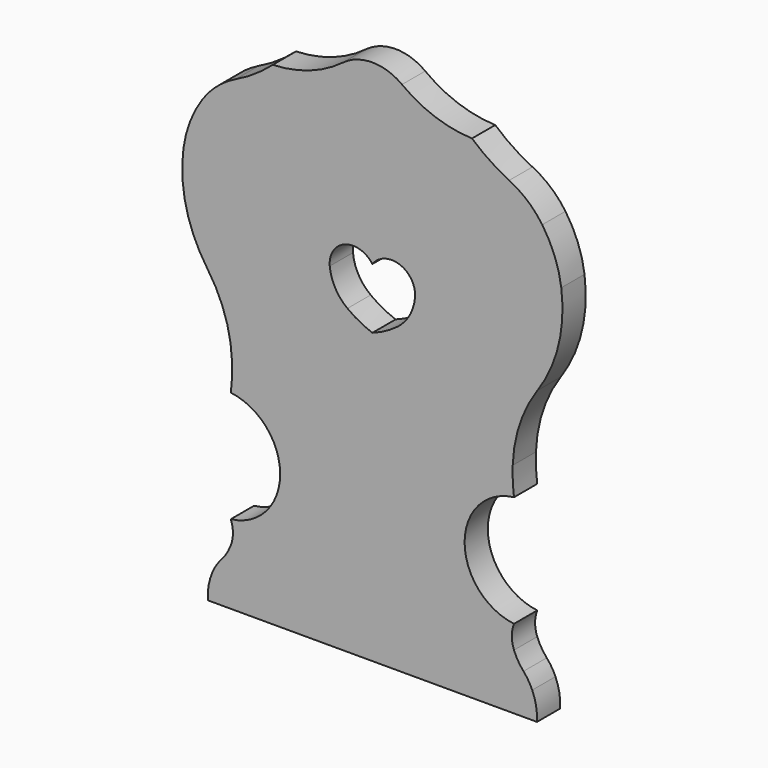
from build123d import *

# Parameters (mm, degrees)
F1_DEPTH = 25


with BuildPart() as f1:
    # F0 (on Front) → F1 (new body)
    with BuildSketch(Plane.XZ):
        with BuildLine():
            ThreePointArc((141.238138, 444.997787), (112.749463, 429.773668), (81.014585, 423.750718))
            ThreePointArc((81.014585, 423.750718), (65.741999, 411.97311), (49.000544, 402.397745))
            ThreePointArc((49.000544, 402.397745), (33.218565, 392.066346), (20.588335, 378.056139))
            ThreePointArc((20.588335, 378.056139), (9.877069, 357.822031), (4.194495, 335.644143))
            ThreePointArc((4.194495, 335.644143), (6.529558, 291.46217), (24.733176, 251.136899))
            ThreePointArc((24.733176, 251.136899), (39.945084, 220.899663), (45.972874, 187.592631))
            ThreePointArc((45.972874, 187.592631), (45.912459, 175.6279), (44.882946, 163.70739))
            ThreePointArc((44.882946, 163.70739), (87.378349, 115.792993), (44.882946, 67.878596))
            ThreePointArc((44.882946, 67.878596), (46.748425, 57.916658), (44.882946, 47.95472))
            ThreePointArc((44.882946, 47.95472), (41.39103, 40.901455), (36.6995, 34.582313))
            ThreePointArc((36.6995, 34.582313), (32.469146, 28.993084), (29.186027, 22.799822))
            ThreePointArc((29.186027, 22.799822), (25.823713, 11.635955), (25.087768, 0))
            Line((25.087768, 0), (308.352295, 0))
            ThreePointArc((308.352295, 0), (307.61635, 11.635955), (304.254036, 22.799822))
            ThreePointArc((304.254036, 22.799822), (300.970917, 28.993084), (296.740563, 34.582313))
            ThreePointArc((296.740563, 34.582313), (292.049033, 40.901455), (288.557117, 47.95472))
            ThreePointArc((288.557117, 47.95472), (286.691638, 57.916658), (288.557117, 67.878596))
            ThreePointArc((288.557117, 67.878596), (246.061714, 115.792993), (288.557117, 163.70739))
            ThreePointArc((288.557117, 163.70739), (287.527604, 175.6279), (287.467189, 187.592631))
            ThreePointArc((287.467189, 187.592631), (293.494979, 220.899663), (308.706887, 251.136899))
            ThreePointArc((308.706887, 251.136899), (326.910505, 291.46217), (329.245568, 335.644143))
            ThreePointArc((329.245568, 335.644143), (323.562994, 357.822031), (312.851728, 378.056139))
            ThreePointArc((312.851728, 378.056139), (300.221498, 392.066346), (284.439519, 402.397745))
            ThreePointArc((284.439519, 402.397745), (267.698064, 411.97311), (252.425478, 423.750718))
            ThreePointArc((252.425478, 423.750718), (220.6906, 429.773668), (192.201925, 444.997787))
            ThreePointArc((192.201925, 444.997787), (166.720032, 453.476058), (141.238138, 444.997787))
        make_face()
        with BuildLine():
            ThreePointArc((166.720032, 300.744148), (177.104622, 308.249052), (189.916627, 308.123254))
            ThreePointArc((189.916627, 308.123254), (200.288352, 300.033358), (203.399401, 287.252887))
            ThreePointArc((203.399401, 287.252887), (198.645247, 272.102034), (188.17311, 260.16534))
            ThreePointArc((188.17311, 260.16534), (177.878406, 253.598127), (166.720032, 248.638297))
            ThreePointArc((166.720032, 248.638297), (155.561657, 253.598127), (145.266953, 260.16534))
            ThreePointArc((145.266953, 260.16534), (134.794816, 272.102034), (130.040662, 287.252887))
            ThreePointArc((130.040662, 287.252887), (133.151711, 300.033358), (143.523436, 308.123254))
            ThreePointArc((143.523436, 308.123254), (156.335441, 308.249052), (166.720032, 300.744148))
        make_face(mode=Mode.SUBTRACT)
    extrude(amount=F1_DEPTH)


solid = f1.part
